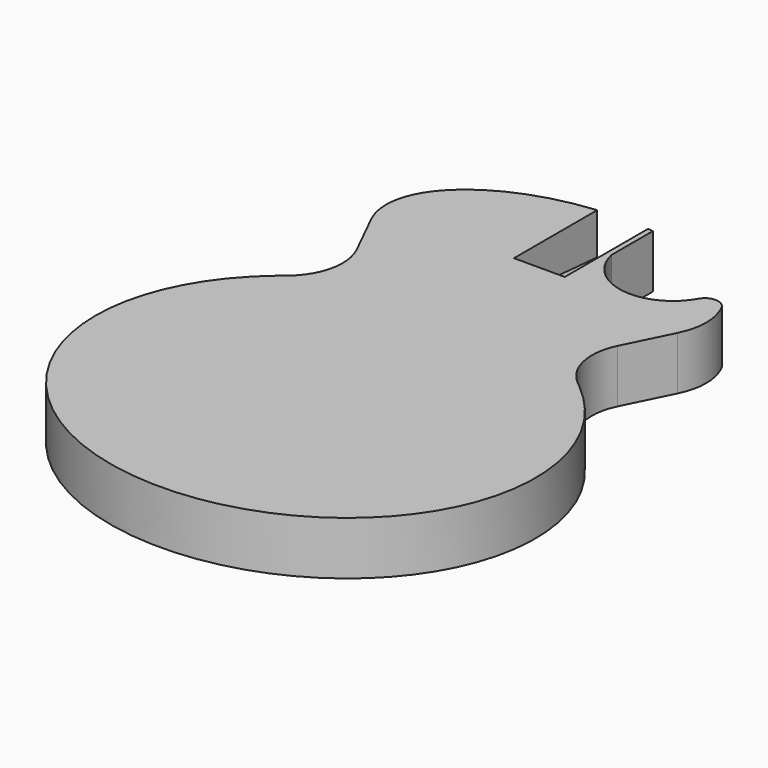
from build123d import *

# Parameters (mm, degrees)
F1_DEPTH = 40
F3_DEPTH = 40.0010001
F4_W     = 38.1
F4_H     = 158
F6_DEPTH = 25.12
F5_DEPTH = 38.1


with BuildPart() as f1:
    # F0 (on Top) → F1 (new body)
    with BuildSketch(Plane.XY):
        with BuildLine():
            Line((-108.5576890767, 256.1176353494), (-113.5364770265, 251.939936217))
            add(Edge.make_bspline(
                [(-113.5364770265, 251.939936217), (-413.7868011311, 0), (0, 0)],
                knots=[2.3296634603, 2.3296634603, 2.3296634603, 4.7123889804, 4.7123889804, 4.7123889804], degree=2, weights=[1, 0.3703943834, 1]))
            add(Edge.make_bspline(
                [(0, 0), (413.7868011311, 0), (113.5364770265, 251.939936217)],
                knots=[4.7123889804, 4.7123889804, 4.7123889804, 7.0951145005, 7.0951145005, 7.0951145005], degree=2, weights=[1, 0.3703943834, 1]))
            Line((113.5364770265, 251.939936217), (108.5576890767, 256.1176353494))
            ThreePointArc((108.5576890767, 256.1176353494), (94.3986512821, 279.7513155104), (97.8621324213, 307.0832288649))
            Line((97.8621324213, 307.0832288649), (114.985095442, 341.7350237373))
            add(Edge.make_bspline(
                [(114.985095442, 341.7350237373), (161.0590339343, 434.975), (0, 434.975)],
                knots=[5.9930638192, 5.9930638192, 5.9930638192, 7.853981634, 7.853981634, 7.853981634], degree=2, weights=[1, 0.59746605, 1]))
            add(Edge.make_bspline(
                [(0, 434.975), (-161.0590339343, 434.975), (-114.985095442, 341.7350237373)],
                knots=[4.7123889804, 4.7123889804, 4.7123889804, 6.5733067952, 6.5733067952, 6.5733067952], degree=2, weights=[1, 0.59746605, 1]))
            Line((-114.985095442, 341.7350237373), (-97.8621324213, 307.0832288649))
            ThreePointArc((-97.8621324213, 307.0832288649), (-94.3986512821, 279.7513155104), (-108.5576890767, 256.1176353494))
        make_face()
    extrude(amount=F1_DEPTH)

    # F2 (on face) → F3 (cut, through all)
    with BuildSketch(Plane.XY.offset(40)):
        with BuildLine():
            Line((89.9212004113, 434.975), (23, 434.975))
            Line((23, 434.975), (23, 394.975))
            ThreePointArc((23, 394.975), (55.7838066831, 363.5315013935), (97.0379112946, 382.5465069933))
            ThreePointArc((97.0379112946, 382.5465069933), (106.0132702576, 388.4737477528), (115.1717086084, 382.8335120741))
            Line((115.1717086084, 382.8335120741), (89.9212004113, 434.975))
        make_face()
    extrude(amount=-F3_DEPTH, mode=Mode.SUBTRACT)

    # F4 (on face) → F6 (cut)
    with BuildSketch(Plane.XY.offset(40)):
        with Locations((0, 434.975)):
            Rectangle(F4_W, F4_H)
    extrude(amount=-F6_DEPTH, mode=Mode.SUBTRACT)

    # F8 (on face) → F5 (cut)
    with BuildSketch(Plane.YZ.offset(-19.05)):
        Polygon((455.6802752227, 14.88), (355.975, 14.88), (455.6802752227, 7.2080971873), align=None)
    extrude(amount=F5_DEPTH, mode=Mode.SUBTRACT)


solid = f1.part
